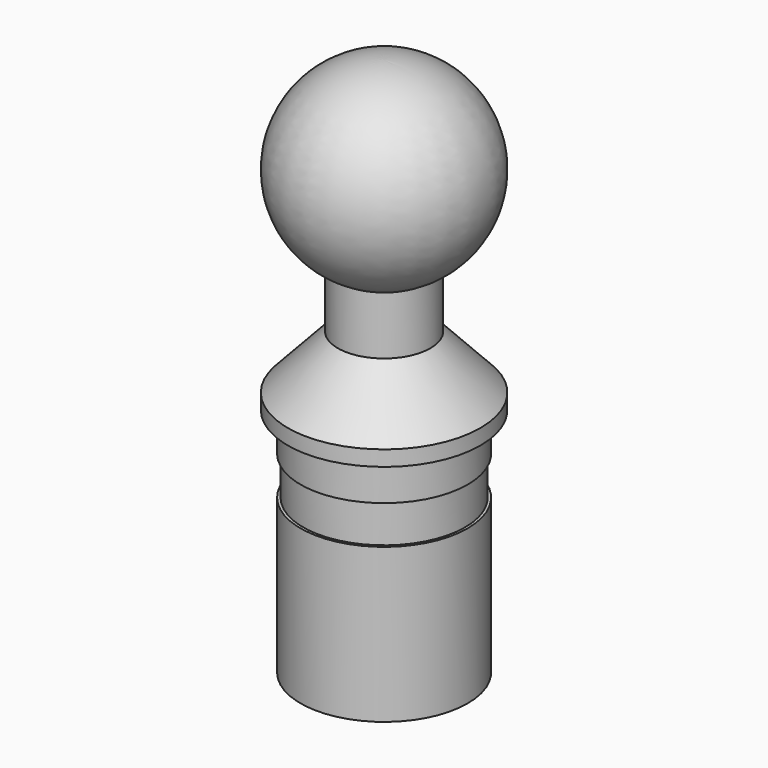
from build123d import *


with BuildPart() as f1:
    # F0 (on Front) → F1 (revolve)
    with BuildSketch(Plane.XZ):
        with BuildLine():
            ThreePointArc((6, 9.24921), (12.110392, 23.31158), (0, 32.715066))
            Line((0, 32.715066), (0, -7.284934))
            Line((0, -7.284934), (9.5, -7.284934))
            Line((9.5, -7.284934), (9.5, -37.284934))
            Line((9.5, -37.284934), (10.85, -37.284934))
            Line((10.85, -37.284934), (10.85, -17.284934))
            Line((10.85, -17.284934), (10.5, -17.284934))
            Line((10.5, -17.284934), (10.5, -12.284934))
            Line((10.5, -12.284934), (10.85, -12.284934))
            Line((10.85, -12.284934), (10.85, -7.284934))
            Line((10.85, -7.284934), (12.5, -7.284934))
            Line((12.5, -7.284934), (12.5, -5.284934))
            Line((12.5, -5.284934), (6, 1.715066))
            Line((6, 1.715066), (6, 9.24921))
        make_face()
    revolve(axis=Axis((0, 0, 12.715066), (0, 0, -1)))


solid = f1.part
